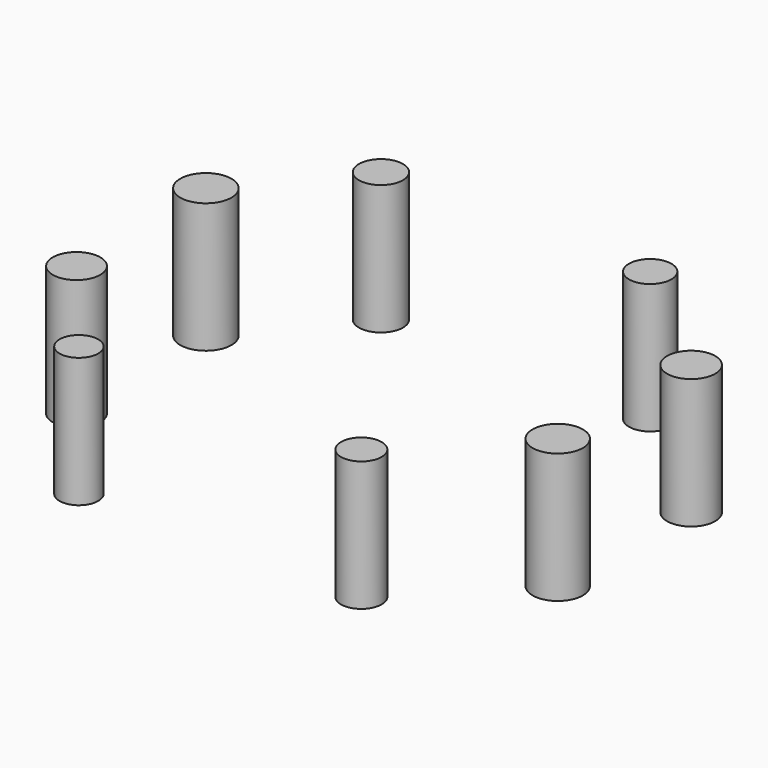
from build123d import *

# Parameters (mm, degrees)
F1_R     = 4.239133
F1_R_2   = 4.085857
F1_R_3   = 4.634566
F1_R_4   = 4.847632
F1_R_5   = 3.913043
F1_R_6   = 3.717962
F1_R_7   = 4.576848
F1_R_8   = 4.934592
F2_DEPTH = 25


with BuildPart() as f2:
    # F1 (on face) → F2 (new body)
    with BuildSketch(Plane.XY):
        with Locations((-34.402177, 35.543479)):
            Circle(F1_R)
        with Locations((17.445652, 35.543479)):
            Circle(F1_R_2)
        with Locations((41.250002, 15.652174)):
            Circle(F1_R_3)
        with Locations((40.59783, -15.652174)):
            Circle(F1_R_4)
        with Locations((19.72826, -36.847826)):
            Circle(F1_R_5)
        with Locations((-34.402177, -37.173916)):
            Circle(F1_R_6)
        with Locations((-51.03261, -16.956523)):
            Circle(F1_R_7)
        with Locations((-51.684786, 15.000001)):
            Circle(F1_R_8)
    extrude(amount=F2_DEPTH)


solid = f2.part
